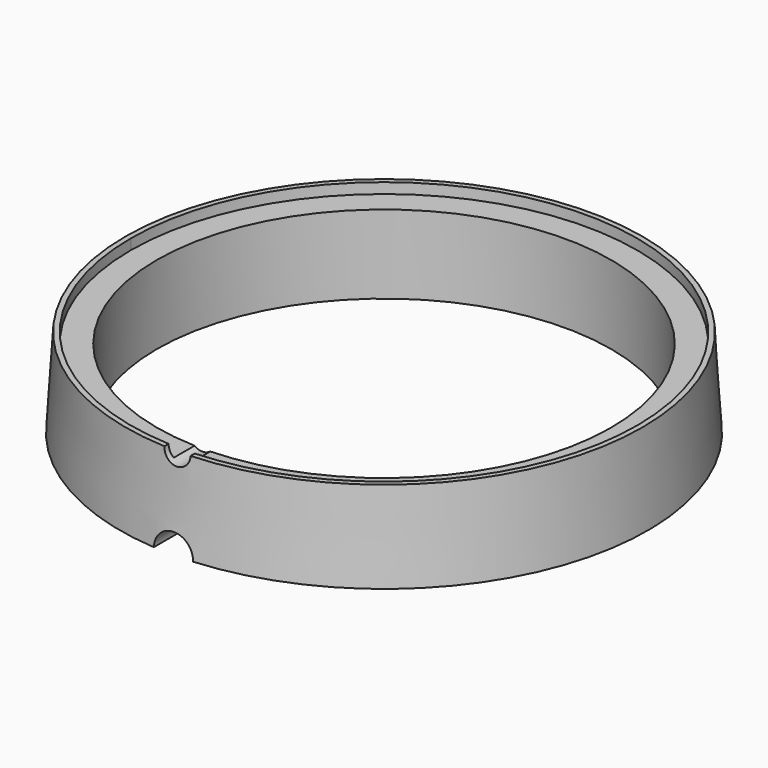
from build123d import *

# Parameters (mm, degrees)
F4_DEPTH = 122.3


with BuildPart() as f1:
    # F0 (on Front) → F1 (revolve)
    with BuildSketch(Plane.XZ):
        Polygon((-86.8375, 30), (-96.8375, 30), (-96.8375, 34), (-98.8375, 34), (-100.947656, 0), (-96.8375, 0), (-86.8375, 0), align=None)
    revolve(axis=Axis((0, 0, -4.859696), (0, 0, -1)))

    # F2 (on Front) + F3 (on Front) → F4 (cut)
    with BuildSketch(Plane.XZ):
        with BuildLine():
            Line((5, 34), (-5, 34))
            ThreePointArc((-5, 34), (0, 29), (5, 34))
        make_face()
    with BuildSketch(Plane.XZ):
        with BuildLine():
            Line((0, 0), (7.5, 0))
            ThreePointArc((7.5, 0), (0, 7.5), (-7.5, 0))
            Line((-7.5, 0), (0, 0))
        make_face()
    extrude(amount=F4_DEPTH, mode=Mode.SUBTRACT)


solid = f1.part
